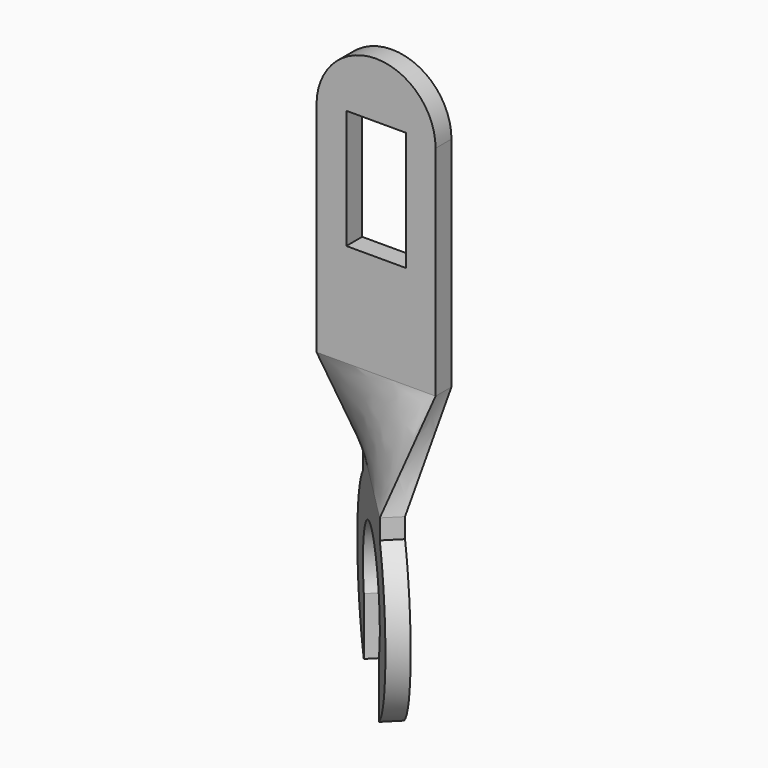
from build123d import *

# Parameters (mm, degrees)
SKETCH_W                = 1.5
SKETCH_H                = 3
PAD_DEPTH               = 0.25
SKETCH002_W             = 3
SKETCH002_H             = 0.5
BODY001_PLACEMENT_ANGLE = 315
PAD001_DEPTH            = 0.25
BODY002_PLACEMENT_ANGLE = 315


with BuildPart() as body:
    # Sketch → Pad (new body, symmetric)
    with BuildSketch(Plane.XZ):
        with BuildLine():
            ThreePointArc((1.5, 10.5), (0, 12), (-1.5, 10.5))
            Line((-1.5, 10.5), (-1.5, 5))
            Line((1.5, 5), (-1.5, 5))
            Line((1.5, 10.5), (1.5, 5))
        make_face()
        with Locations((0, 9.1)):
            Rectangle(SKETCH_W, SKETCH_H, mode=Mode.SUBTRACT)
    extrude(amount=PAD_DEPTH, both=True)


with BuildPart() as body001:
    # Sketch003 → AdditiveLoft section 0
    with BuildSketch(Plane.XY.offset(5)):
        Polygon((1.237437, 0.883883), (-0.883883, -1.237437), (-1.237437, -0.883883), (0.883883, 1.237437), align=None)
    # Sketch002 → AdditiveLoft section 1
    with BuildSketch(Plane.XY.offset(2.5)):
        Rectangle(SKETCH002_W, SKETCH002_H)
    loft()


with BuildPart() as body001_1:
    # Body001 placement: moved
    add(body001.part.rotate(Axis((0, 0, 0), (0, 0, 1)), BODY001_PLACEMENT_ANGLE))


with BuildPart() as body002:
    # Sketch004 → Pad001 (new body, symmetric)
    with BuildSketch(Plane.XZ):
        with BuildLine():
            Line((-1.5, 2), (-1.5, 2.5))
            Line((-1.5, 2.5), (1.5, 2.5))
            Line((1.5, 2.5), (1.5, 2))
            ThreePointArc((1.35, -2.104163), (2.498332, -0.09131), (1.5, 2))
            Line((1.35, -2.104163), (1.35, -0.653835))
            ThreePointArc((1.35, -0.653835), (0, 1.5), (-1.35, -0.653835))
            Line((-1.35, -2.104163), (-1.35, -0.653835))
            ThreePointArc((-1.5, 2), (-2.498332, -0.09131), (-1.35, -2.104163))
        make_face()
    extrude(amount=PAD001_DEPTH, both=True)


with BuildPart() as body002_1:
    # Body002 placement: moved
    add(body002.part.rotate(Axis((0, 0, 0), (0, 0, 1)), BODY002_PLACEMENT_ANGLE))


solid = Compound([body.part, body001_1.part, body002_1.part])
